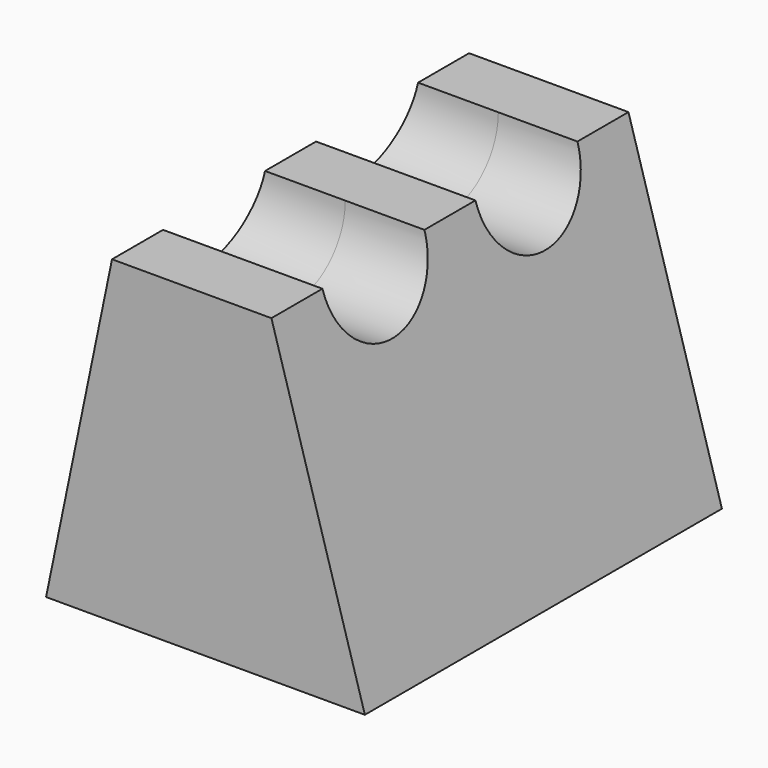
from build123d import *

# Parameters (mm, degrees)
F1_DEPTH      = 700
F2_R          = 100
F3_DEPTH      = 400
F3_DEPTH_BACK = 310


with BuildPart() as f1:
    # F0 (on Front) → F1 (new body)
    with BuildSketch(Plane.XZ):
        Polygon((270.7016063785, -167.6180982615), (124.1205126206, 332.3819017385), (-125.8794873794, 332.3819017385), (-229.2983936215, -167.6180982615), align=None)
    extrude(amount=-F1_DEPTH)

    # F2 (on Right) → F3 (cut, two sides)
    with BuildSketch(Plane.YZ) as f3_sk:
        with Locations((200, 332.3819017385)):
            Circle(F2_R)
        with Locations((500, 332.3819017385)):
            Circle(F2_R)
    extrude(amount=-F3_DEPTH, mode=Mode.SUBTRACT)
    extrude(f3_sk.sketch, amount=F3_DEPTH_BACK, mode=Mode.SUBTRACT)


solid = f1.part
